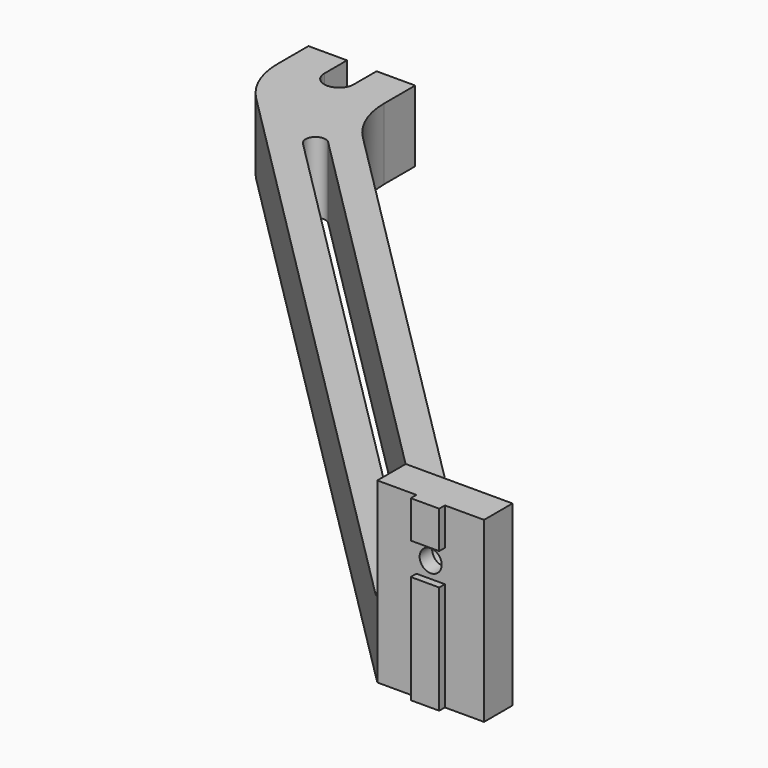
from build123d import *

# Parameters (mm, degrees)
PAD_DEPTH            = 20
SKETCH001_W          = 30
SKETCH001_H          = 10
PAD001_DEPTH         = 30
PAD001_DEPTH_BACK    = 20
FILLET_R             = 3
FILLET001_R          = 24
FILLET002_R          = 12
SKETCH002_R          = 3.1
POCKET_DEPTH         = 10.001
SKETCH003_R          = 5.65
POCKET001_DEPTH      = 5.6
POCKET001_DEPTH_BACK = 5
POCKET002_DEPTH      = 20.001
FILLET003_R          = 22
FILLET004_R          = 22
SKETCH005_W          = 8
SKETCH005_H          = 10.5
SKETCH005_H_2        = 30.5
PAD002_DEPTH         = 2


with BuildPart() as part:
    # Sketch → Pad (new body)
    with BuildSketch(Plane.XY):
        Polygon((-146.776695, 176.776695), (30, 0), (0, 0), (-176.776695, 176.776695), (-176.776695, 196.776695), (-146.776695, 196.776695), align=None)
        with BuildLine():
            ThreePointArc((-144.877384, 163.821067), (-148.821067, 163.821067), (-148.821067, 159.877384))
            Line((-148.821067, 159.877384), (-15.014124, 26.070441))
            ThreePointArc((-15.014124, 26.070441), (-11.070441, 26.070441), (-11.070441, 30.014124))
            Line((-144.877384, 163.821067), (-11.070441, 30.014124))
        make_face(mode=Mode.SUBTRACT)
    extrude(amount=PAD_DEPTH)

    # Sketch001 (on Face12 of Pad) → Pad001 (join, two sides)
    with BuildSketch(Plane.XY.offset(20)) as pad001_sk:
        with Locations((15, 5)):
            Rectangle(SKETCH001_W, SKETCH001_H)
    extrude(amount=PAD001_DEPTH)
    extrude(pad001_sk.sketch, amount=-PAD001_DEPTH_BACK)

    # Fillet
    fillet_edges = [part.edges().sort_by_distance(p)[0] for p in [
        (0, 5, 20),
    ]]
    fillet(fillet_edges, radius=FILLET_R)

    # Fillet001
    fillet001_edges = [part.edges().sort_by_distance(p)[0] for p in [
        (20, 10, 10),
    ]]
    fillet(fillet001_edges, radius=FILLET001_R)

    # Fillet002
    fillet002_edges = [part.edges().sort_by_distance(p)[0] for p in [
        (8.5, 10, 20),
    ]]
    fillet(fillet002_edges, radius=FILLET002_R)

    # Sketch002 (on Face1 of Fillet002) → Pocket (cut, through all)
    with BuildSketch(Plane(origin=(0, 10, 0), x_dir=(-1, 0, 0), z_dir=(0, 1, 0))):
        with Locations((-15, 35)):
            Circle(SKETCH002_R)
    extrude(amount=-POCKET_DEPTH, mode=Mode.SUBTRACT)

    # Sketch003 (on Face1 of Pocket) → Pocket001 (cut, two sides)
    with BuildSketch(Plane(origin=(0, 10, 0), x_dir=(-1, 0, 0), z_dir=(0, 1, 0))) as pocket001_sk:
        with Locations((-15, 35)):
            Circle(SKETCH003_R)
    extrude(amount=-POCKET001_DEPTH, mode=Mode.SUBTRACT)
    extrude(pocket001_sk.sketch, amount=POCKET001_DEPTH_BACK, mode=Mode.SUBTRACT)

    # Sketch004 (on Face21 of Pocket001) → Pocket002 (cut, through all)
    with BuildSketch(Plane.XY.offset(20)):
        with BuildLine():
            ThreePointArc((-157.626695, 204.776695), (-161.776695, 208.926695), (-165.926695, 204.776695))
            Line((-165.926695, 204.776695), (-165.926695, 188.776695))
            ThreePointArc((-165.926695, 188.776695), (-161.776695, 184.626695), (-157.626695, 188.776695))
            Line((-157.626695, 204.776695), (-157.626695, 188.776695))
        make_face()
    extrude(amount=-POCKET002_DEPTH, mode=Mode.SUBTRACT)

    # Fillet003
    fillet003_edges = [part.edges().sort_by_distance(p)[0] for p in [
        (-146.776695, 176.776695, 10),
    ]]
    fillet(fillet003_edges, radius=FILLET003_R)

    # Fillet004
    fillet004_edges = [part.edges().sort_by_distance(p)[0] for p in [
        (-176.776695, 176.776695, 10),
    ]]
    fillet(fillet004_edges, radius=FILLET004_R)

    # Sketch005 (on Face4 of Fillet004) → Pad002 (join)
    with BuildSketch(Plane.XZ):
        with Locations((15, 44.75)):
            Rectangle(SKETCH005_W, SKETCH005_H)
        with Locations((15, 15.25)):
            Rectangle(SKETCH005_W, SKETCH005_H_2)
    extrude(amount=PAD002_DEPTH)


solid = part.part
